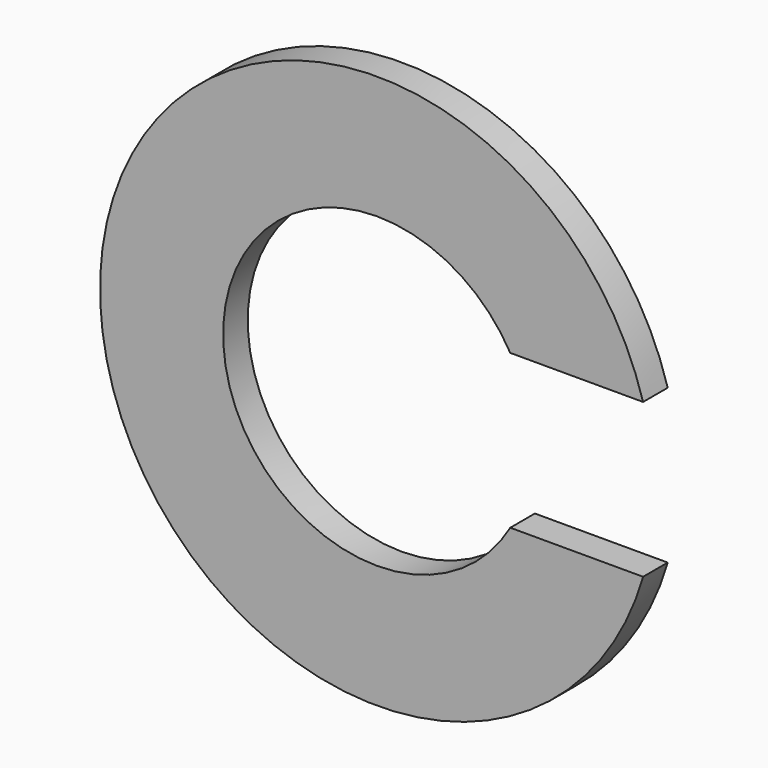
from build123d import *

# Parameters (mm, degrees)
PAD_DEPTH = 2


with BuildPart() as part:
    # Sketch → Pad (new body)
    with BuildSketch(Plane.XZ):
        with BuildLine():
            ThreePointArc((17.291616, 5), (-18, 0), (17.291616, -5))
            Line((8.660254, -5), (17.291616, -5))
            ThreePointArc((8.660254, 5), (-10, 0), (8.660254, -5))
            Line((17.291616, 5), (8.660254, 5))
        make_face()
    extrude(amount=PAD_DEPTH)


solid = part.part
